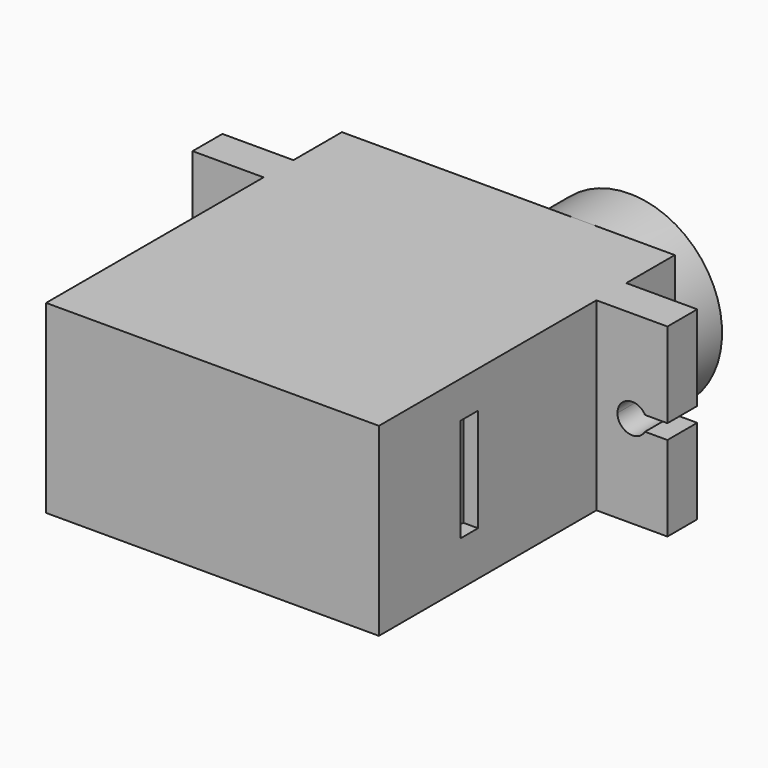
from build123d import *

# Parameters (mm, degrees)
F0_W     = 4.8
F0_H     = 2.52
F1_DEPTH = 12.5
F2_W     = 1.5
F2_H     = 7
F3_DEPTH = 1
F4_R     = 6.25
F5_DEPTH = 4
F7_DEPTH = 2.52
F9_DEPTH = 2.52


with BuildPart() as f1:
    # F0 (on Top) → F1 (new body)
    with BuildSketch(Plane.XY):
        Polygon((25.5896202285, 7.390901965), (3.0896202285, 7.390901965), (3.0896202285, 3.290901965), (3.0896202285, 0.770901965), (3.0896202285, -17.609098035), (25.5896202285, -17.609098035), (25.5896202285, 0.770901965), (25.5896202285, 3.290901965), align=None)
        with Locations((27.9896202285, 2.030901965)):
            Rectangle(F0_W, F0_H)
        with Locations((0.6896202285, 2.030901965)):
            Rectangle(F0_W, F0_H)
    extrude(amount=F1_DEPTH)

    # F2 (on face) → F3 (cut)
    with BuildSketch(Plane.YZ.offset(25.5896202285)):
        with Locations((-9.979098035, 6.5)):
            Rectangle(F2_W, F2_H)
    extrude(amount=-F3_DEPTH, mode=Mode.SUBTRACT)

    # F4 (on face) → F5 (join)
    with BuildSketch(Plane(origin=(0, 7.390901965, 0), x_dir=(-1, 0, 0), z_dir=(0, 1, 0))):
        with Locations((-19.3396202285, 6.25)):
            Circle(F4_R)
    extrude(amount=F5_DEPTH)

    # F6 (on face) → F7 (cut, through all)
    with BuildSketch(Plane(origin=(0, 3.290901965, 0), x_dir=(-1, 0, 0), z_dir=(0, 1, 0))):
        with BuildLine():
            Line((-30.3896202285, 5.7453945725), (-28.8729703096, 5.7453945725))
            ThreePointArc((-28.8729703096, 5.7453945725), (-29.0096060883, 6.2446820853), (-28.8782882995, 6.7453945725))
            Line((-28.8782882995, 6.7453945725), (-30.3896202285, 6.7453945725))
            Line((-30.3896202285, 6.7453945725), (-30.3896202285, 5.7453945725))
        make_face()
        with BuildLine():
            Line((-28.8729703096, 6.7453945725), (-28.8729703096, 5.7453945725))
            ThreePointArc((-28.8729703096, 5.7453945725), (-27.7482297936, 5.2847668465), (-27.0096202285, 6.25))
            ThreePointArc((-27.0096202285, 6.25), (-27.7533665173, 7.2166095569), (-28.8782882995, 6.7453945725))
            Line((-28.8782882995, 6.7453945725), (-28.8729703096, 6.7453945725))
        make_face()
        with BuildLine():
            ThreePointArc((-28.8782882995, 6.7453945725), (-29.0096060883, 6.2446820853), (-28.8729703096, 5.7453945725))
            Line((-28.8729703096, 5.7453945725), (-28.8729703096, 6.7453945725))
            Line((-28.8729703096, 6.7453945725), (-28.8782882995, 6.7453945725))
        make_face()
    extrude(amount=-F7_DEPTH, mode=Mode.SUBTRACT)

    # F8 (on face) → F9 (cut, through all)
    with BuildSketch(Plane(origin=(0, 3.290901965, 0), x_dir=(-1, 0, 0), z_dir=(0, 1, 0))):
        with BuildLine():
            ThreePointArc((0.1964051753, 5.75), (0.2963055978, 5.9911809549), (0.3303797715, 6.25))
            ThreePointArc((0.3303797715, 6.25), (0.2963055978, 6.5088190451), (0.1964051753, 6.75))
            Line((0.1964051753, 6.75), (-0.2896202285, 6.75))
            Line((-0.2896202285, 6.75), (-0.2896202285, 5.75))
            Line((-0.2896202285, 5.75), (0.1964051753, 5.75))
        make_face()
        with BuildLine():
            ThreePointArc((0.1964051753, 6.75), (0.2963055978, 6.5088190451), (0.3303797715, 6.25))
            ThreePointArc((0.3303797715, 6.25), (0.2963055978, 5.9911809549), (0.1964051753, 5.75))
            Line((0.1964051753, 5.75), (1.7103797715, 5.75))
            Line((1.7103797715, 5.75), (1.7103797715, 6.75))
            Line((1.7103797715, 6.75), (0.1964051753, 6.75))
        make_face()
        with BuildLine():
            Line((-0.2896202285, 6.75), (0.1964051753, 6.75))
            ThreePointArc((0.1964051753, 6.75), (-1.6696202285, 6.25), (0.1964051753, 5.75))
            Line((0.1964051753, 5.75), (-0.2896202285, 5.75))
            Line((-0.2896202285, 5.75), (-0.2896202285, 6.75))
        make_face()
    extrude(amount=-F9_DEPTH, mode=Mode.SUBTRACT)


solid = f1.part
